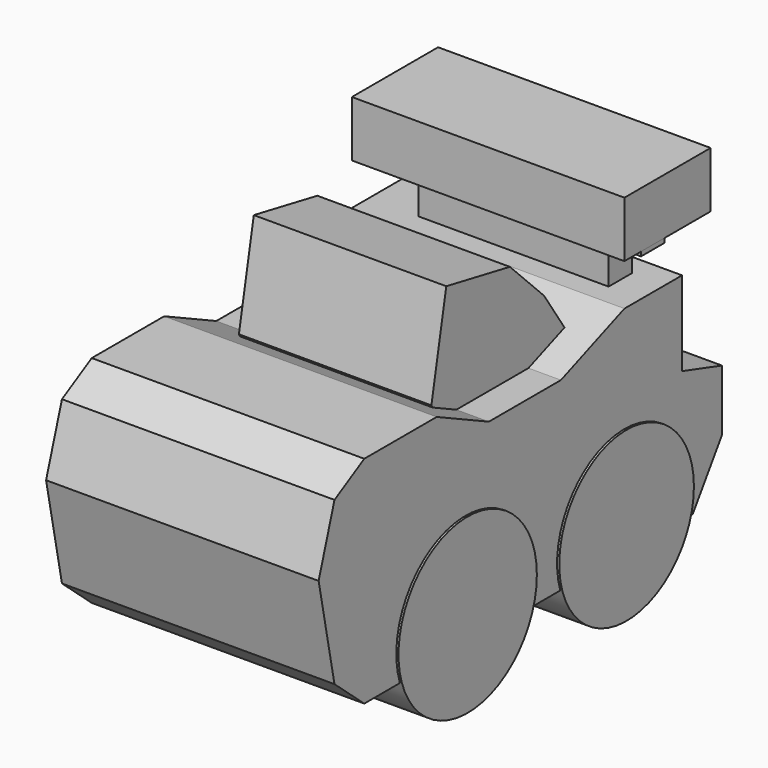
from build123d import *

# Parameters (mm, degrees)
F1_DEPTH  = 32.004
F3_START  = 5.588
F3_DEPTH  = 22.606
F5_START  = 5.842
F4_W      = 3.4034436103
F4_H      = 4.3758554384
F5_DEPTH  = 22.352
F6_W      = 12.653497979
F6_H      = 6.5637845546
F7_DEPTH  = 32.004
F8_R      = 10.1551964282
F8_R_2    = 9.881466812
F9_DEPTH  = 32.258
F10_W     = 3.4310170449
F10_H     = 0.5102269351
F11_DEPTH = 32.004


with BuildPart() as f1:
    # F0 (on Right) → F1 (new body)
    with BuildSketch(Plane.YZ):
        Polygon((-38.1832793355, -17.0513112098), (-30.604917556, -17.0513112098), (-27.5534950197, -17.0513112098), (-27.5534950197, -10.6459967792), (-23.5019996762, -7.4948342517), (-18.1000065058, -10.6459967792), (-18.1000065058, -17.0513112098), (-3.0503056051, -17.0513112098), (-3.0503056051, -9.3450688), (0, -5.919252988), (5.3086332045, -10.6459967792), (5.3086332045, -17.0513112098), (10.0353760645, -17.0513112098), (14.3119534478, -10.6459967792), (14.3119534478, -3.4433389083), (8.4597952664, -1.6426743241), (8.4597952664, 8.2609811798), (0, 8.2609811798), (-9.3217669055, 4.6596517786), (-19.9006702751, 4.6596517786), (-27.5534950197, 8.2609811798), (-38.1832793355, 8.2609811798), (-42.5554104149, 5.7850671001), (-44.8848903179, -1.6426743241), (-42.5554104149, -13.2621303201), align=None)
    extrude(amount=F1_DEPTH)

    # F2 (on Right) → F3 (join)
    with BuildSketch(Plane.YZ.offset(F3_START)):
        Polygon((-21.3809460402, 18.0256459862), (-23.568874225, 6.5997978672), (-21.3809460402, 2.9532494955), (-12.055656352, 2.9532494955), (-3.6344151013, 6.1135911383), (-7.0378584787, 11.2187573686), (-12.055656352, 16.2399523617), align=None)
    extrude(amount=F3_DEPTH)

    # F8 (on Right) → F9 (join)
    with BuildSketch(Plane.YZ):
        with Locations((-23.3257710934, -13.8208679855)):
            Circle(F8_R)
        with Locations((0, -14.0639711171)):
            Circle(F8_R_2)
    extrude(amount=F9_DEPTH)


with BuildPart() as f5:
    # F4 (on Right) → F5 (new body)
    with BuildSketch(Plane.YZ.offset(F5_START)):
        with Locations((4.144886625, 10.4894484393)):
            Rectangle(F4_W, F4_H)
    extrude(amount=F5_DEPTH)


with BuildPart() as f7:
    # F6 (on Right) → F7 (new body)
    with BuildSketch(Plane.YZ):
        with Locations((6.3267489895, 16.4454737678)):
            Rectangle(F6_W, F6_H)
    extrude(amount=F7_DEPTH)


with BuildPart() as f11:
    # F10 (on Right) → F11 (new body)
    with BuildSketch(Plane.YZ):
        with Locations((4.1560337413, 12.9155237228)):
            Rectangle(F10_W, F10_H)
    extrude(amount=F11_DEPTH)


solid = Compound([f1.part, f5.part, f7.part, f11.part])
